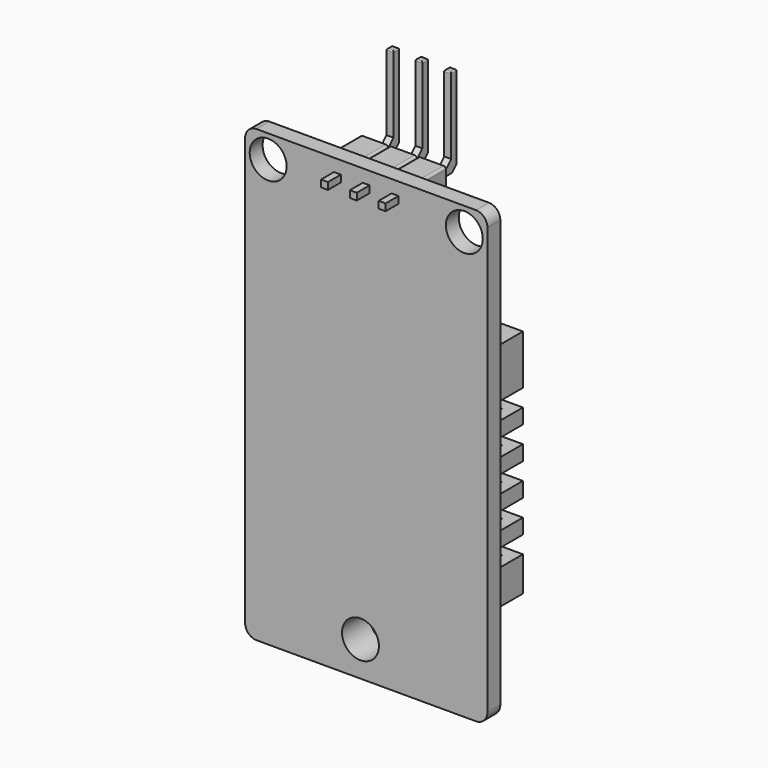
from build123d import *

# Parameters (mm, degrees)
BOX290_W                  = 0.6
BOX290_H                  = 0.6
BOX290_DEPTH              = 7.7
BOX289_W                  = 0.6
BOX289_H                  = 0.6
BOX289_DEPTH              = 7.7
CHAMFER038_SIZE           = 0.5
CHAMFER039_SIZE           = 0.5
FILLET216_R               = 0.1
BOX288_W                  = 2.4
BOX288_H                  = 2.4
BOX288_DEPTH              = 2.6
FILLET215_R               = 0.2
BOX287_W                  = 0.6
BOX287_H                  = 0.6
BOX287_DEPTH              = 7.7
BOX286_W                  = 0.6
BOX286_H                  = 0.6
BOX286_DEPTH              = 7.7
CHAMFER036_SIZE           = 0.5
CHAMFER037_SIZE           = 0.5
FILLET214_R               = 0.1
BOX285_W                  = 2.4
BOX285_H                  = 2.4
BOX285_DEPTH              = 2.6
FILLET213_R               = 0.2
BOX281_W                  = 0.6
BOX281_H                  = 0.6
BOX281_DEPTH              = 7.7
BOX280_W                  = 0.6
BOX280_H                  = 0.6
BOX280_DEPTH              = 7.7
CHAMFER034_SIZE           = 0.5
CHAMFER035_SIZE           = 0.5
FILLET212_R               = 0.1
BOX279_W                  = 2.4
BOX279_H                  = 2.4
BOX279_DEPTH              = 2.6
FILLET211_R               = 0.2
BOX284_W                  = 10
BOX284_H                  = 10
BOX284_DEPTH              = 10
BOX283_W                  = 10
BOX283_H                  = 10
BOX283_DEPTH              = 10
TUBE011_R                 = 3.6
TUBE011_R_2               = 3
TUBE011_DEPTH             = 0.6
TUBE012_R                 = 3.6
TUBE012_R_2               = 3
TUBE012_DEPTH             = 0.6
CUT341_PLACEMENT_ANGLE    = 90
BOX282_W                  = 10
BOX282_H                  = 10
BOX282_DEPTH              = 10
TUBE009_R                 = 3.6
TUBE009_R_2               = 3
TUBE009_DEPTH             = 0.6
TUBE010_R                 = 3.6
TUBE010_R_2               = 3
TUBE010_DEPTH             = 0.6
CUT340_PLACEMENT_ANGLE    = 90
BOX278_W                  = 17
BOX278_H                  = 14
BOX278_DEPTH              = 1.4
CYLINDER262_R             = 1.6
CYLINDER262_DEPTH         = 10
BOX277_W                  = 5
BOX277_H                  = 15
BOX277_DEPTH              = 1.6
BOX277_PLACEMENT_ANGLE    = 60
BOX276_W                  = 5
BOX276_H                  = 15
BOX276_DEPTH              = 1.6
BOX276_PLACEMENT_ANGLE    = 60
BOX275_W                  = 5
BOX275_H                  = 15
BOX275_DEPTH              = 1.6
BOX274_W                  = 18
BOX274_H                  = 13
BOX274_DEPTH              = 6.6
BOX273_W                  = 1.5
BOX273_H                  = 1.5
BOX273_DEPTH              = 4
ARRAY007_Y_COUNT          = 3
ARRAY007_Y_PITCH          = 2.7
BOX272_W                  = 1.5
BOX272_H                  = 1.5
BOX272_DEPTH              = 4
ARRAY006_X_COUNT          = 5
ARRAY006_X_PITCH          = 2.8
ARRAY006_Y_COUNT          = 3
ARRAY006_Y_PITCH          = 2.7
BOX271_W                  = 1.5
BOX271_H                  = 3
BOX271_DEPTH              = 4
ARRAY005_X_COUNT          = 5
ARRAY005_X_PITCH          = 2.8
ARRAY005_Y_COUNT          = 2
ARRAY005_Y_PITCH          = 12
BOX270_W                  = 20
BOX270_H                  = 15
BOX270_DEPTH              = 7.6
CYLINDER261_R             = 1.6
CYLINDER261_DEPTH         = 10
CYLINDER260_R             = 1.6
CYLINDER260_DEPTH         = 10
CYLINDER259_R             = 1.6
CYLINDER259_DEPTH         = 10
BOX269_W                  = 39
BOX269_H                  = 21
BOX269_DEPTH              = 1.4
FILLET209_R               = 1
FILLET210_R               = 1
FUSION197_PITCH_ANGLE     = -90
FUSION197_PLACEMENT_ANGLE = -90


with BuildPart() as cubo275:
    # Box290 → Box290 (new body)
    with BuildSketch(Plane(origin=(0, 0, 7.7), x_dir=(0, 0, -1), z_dir=(1, 0, 0))):
        with Locations((0.3, 0.3)):
            Rectangle(BOX290_W, BOX290_H)
    extrude(amount=BOX290_DEPTH)


with BuildPart() as cuerpometal005:
    # Box289 → Box289 (new body)
    with BuildSketch(Plane.XY):
        with Locations((0.3, 0.3)):
            Rectangle(BOX289_W, BOX289_H)
    extrude(amount=BOX289_DEPTH)

    # Fusion195: union Cubo275
    add(cubo275.part)

    # Chamfer038
    chamfer038_edges = [cuerpometal005.edges().sort_by_distance(p)[0] for p in [
        (0, 0.3, 7.7),
    ]]
    chamfer(chamfer038_edges, length=CHAMFER038_SIZE)

    # Chamfer039
    chamfer039_edges = [cuerpometal005.edges().sort_by_distance(p)[0] for p in [
        (0.6, 0.3, 7.1),
    ]]
    chamfer(chamfer039_edges, length=CHAMFER039_SIZE)

    # Fillet216
    fillet216_edges = [cuerpometal005.edges().sort_by_distance(p)[0] for p in [
        (7.7, 0, 7.4),
        (7.7, 0.3, 7.1),
        (7.7, 0.3, 7.7),
        (7.7, 0.6, 7.4),
    ]]
    fillet(fillet216_edges, radius=FILLET216_R)


with BuildPart() as cuerpometal005_1:
    # Fillet216 placement: moved
    add(cuerpometal005.part.moved(Location((0.9, 0.9, -1.2))))


with BuildPart() as obj1:
    # Box288 → Box288 (new body)
    with BuildSketch(Plane.XY.offset(1.6)):
        with Locations((1.2, 1.2)):
            Rectangle(BOX288_W, BOX288_H)
    extrude(amount=BOX288_DEPTH)

    # Fillet215
    fillet215_edges = [obj1.edges().sort_by_distance(p)[0] for p in [
        (0, 0, 2.9),
        (0, 2.4, 2.9),
        (2.4, 0, 2.9),
        (2.4, 2.4, 2.9),
    ]]
    fillet(fillet215_edges, radius=FILLET215_R)

    # Fusion194: union CuerpoMetal005
    add(cuerpometal005_1.part)


with BuildPart() as obj1_1:
    # Fusion194 placement: moved
    add(obj1.part.moved(Location((36.4, 11.8, -0.2))))


with BuildPart() as cubo272:
    # Box287 → Box287 (new body)
    with BuildSketch(Plane(origin=(0, 0, 7.7), x_dir=(0, 0, -1), z_dir=(1, 0, 0))):
        with Locations((0.3, 0.3)):
            Rectangle(BOX287_W, BOX287_H)
    extrude(amount=BOX287_DEPTH)


with BuildPart() as cuerpometal004:
    # Box286 → Box286 (new body)
    with BuildSketch(Plane.XY):
        with Locations((0.3, 0.3)):
            Rectangle(BOX286_W, BOX286_H)
    extrude(amount=BOX286_DEPTH)

    # Fusion193: union Cubo272
    add(cubo272.part)

    # Chamfer036
    chamfer036_edges = [cuerpometal004.edges().sort_by_distance(p)[0] for p in [
        (0, 0.3, 7.7),
    ]]
    chamfer(chamfer036_edges, length=CHAMFER036_SIZE)

    # Chamfer037
    chamfer037_edges = [cuerpometal004.edges().sort_by_distance(p)[0] for p in [
        (0.6, 0.3, 7.1),
    ]]
    chamfer(chamfer037_edges, length=CHAMFER037_SIZE)

    # Fillet214
    fillet214_edges = [cuerpometal004.edges().sort_by_distance(p)[0] for p in [
        (7.7, 0, 7.4),
        (7.7, 0.3, 7.1),
        (7.7, 0.3, 7.7),
        (7.7, 0.6, 7.4),
    ]]
    fillet(fillet214_edges, radius=FILLET214_R)


with BuildPart() as cuerpometal004_1:
    # Fillet214 placement: moved
    add(cuerpometal004.part.moved(Location((0.9, 0.9, -1.2))))


with BuildPart() as obj2:
    # Box285 → Box285 (new body)
    with BuildSketch(Plane.XY.offset(1.6)):
        with Locations((1.2, 1.2)):
            Rectangle(BOX285_W, BOX285_H)
    extrude(amount=BOX285_DEPTH)

    # Fillet213
    fillet213_edges = [obj2.edges().sort_by_distance(p)[0] for p in [
        (0, 0, 2.9),
        (0, 2.4, 2.9),
        (2.4, 0, 2.9),
        (2.4, 2.4, 2.9),
    ]]
    fillet(fillet213_edges, radius=FILLET213_R)

    # Fusion192: union CuerpoMetal004
    add(cuerpometal004_1.part)


with BuildPart() as obj2_1:
    # Fusion192 placement: moved
    add(obj2.part.moved(Location((36.4, 9.3, -0.2))))


with BuildPart() as cubo266:
    # Box281 → Box281 (new body)
    with BuildSketch(Plane(origin=(0, 0, 7.7), x_dir=(0, 0, -1), z_dir=(1, 0, 0))):
        with Locations((0.3, 0.3)):
            Rectangle(BOX281_W, BOX281_H)
    extrude(amount=BOX281_DEPTH)


with BuildPart() as cuerpometal003:
    # Box280 → Box280 (new body)
    with BuildSketch(Plane.XY):
        with Locations((0.3, 0.3)):
            Rectangle(BOX280_W, BOX280_H)
    extrude(amount=BOX280_DEPTH)

    # Fusion191: union Cubo266
    add(cubo266.part)

    # Chamfer034
    chamfer034_edges = [cuerpometal003.edges().sort_by_distance(p)[0] for p in [
        (0, 0.3, 7.7),
    ]]
    chamfer(chamfer034_edges, length=CHAMFER034_SIZE)

    # Chamfer035
    chamfer035_edges = [cuerpometal003.edges().sort_by_distance(p)[0] for p in [
        (0.6, 0.3, 7.1),
    ]]
    chamfer(chamfer035_edges, length=CHAMFER035_SIZE)

    # Fillet212
    fillet212_edges = [cuerpometal003.edges().sort_by_distance(p)[0] for p in [
        (7.7, 0, 7.4),
        (7.7, 0.3, 7.1),
        (7.7, 0.3, 7.7),
        (7.7, 0.6, 7.4),
    ]]
    fillet(fillet212_edges, radius=FILLET212_R)


with BuildPart() as cuerpometal003_1:
    # Fillet212 placement: moved
    add(cuerpometal003.part.moved(Location((0.9, 0.9, -1.2))))


with BuildPart() as obj3:
    # Box279 → Box279 (new body)
    with BuildSketch(Plane.XY.offset(1.6)):
        with Locations((1.2, 1.2)):
            Rectangle(BOX279_W, BOX279_H)
    extrude(amount=BOX279_DEPTH)

    # Fillet211
    fillet211_edges = [obj3.edges().sort_by_distance(p)[0] for p in [
        (0, 0, 2.9),
        (0, 2.4, 2.9),
        (2.4, 0, 2.9),
        (2.4, 2.4, 2.9),
    ]]
    fillet(fillet211_edges, radius=FILLET211_R)

    # Fusion190: union CuerpoMetal003
    add(cuerpometal003_1.part)


with BuildPart() as obj3_1:
    # Fusion190 placement: moved
    add(obj3.part.moved(Location((36.4, 6.8, -0.2))))


with BuildPart() as cubo269:
    # Box284 → Box284 (new body)
    with BuildSketch(Plane(origin=(20, 5, -9), x_dir=(1, 0, 0), z_dir=(0, 0, 1))):
        with Locations((5, 5)):
            Rectangle(BOX284_W, BOX284_H)
    extrude(amount=BOX284_DEPTH)


with BuildPart() as cubo268:
    # Box283 → Box283 (new body)
    with BuildSketch(Plane(origin=(-14, -11, -10), x_dir=(1, 0, 0), z_dir=(0, 0, 1))):
        with Locations((5, 5)):
            Rectangle(BOX283_W, BOX283_H)
    extrude(amount=BOX283_DEPTH)


with BuildPart() as tube011:
    # Tube011 → Tube011 (new body)
    with BuildSketch(Plane(origin=(-12, -5, 2), x_dir=(0, 0, -1), z_dir=(1, 0, 0))):
        Circle(TUBE011_R)
        Circle(TUBE011_R_2, mode=Mode.SUBTRACT)
    extrude(amount=TUBE011_DEPTH)


with BuildPart() as cut341:
    # Tube012 → Tube012 (new body)
    with BuildSketch(Plane(origin=(-10.5, -5, 2), x_dir=(0, 0, -1), z_dir=(1, 0, 0))):
        Circle(TUBE012_R)
        Circle(TUBE012_R_2, mode=Mode.SUBTRACT)
    extrude(amount=TUBE012_DEPTH)

    # Fusion188: union Tube011
    add(tube011.part)

    # Cut341: cut Cubo268
    add(cubo268.part, mode=Mode.SUBTRACT)


with BuildPart() as cut341_1:
    # Cut341 placement: moved
    add(cut341.part.moved(Location((20, 23, -1))).rotate(Axis((20, 23, -1), (0, 0, 1)), CUT341_PLACEMENT_ANGLE))


with BuildPart() as cubo267:
    # Box282 → Box282 (new body)
    with BuildSketch(Plane(origin=(-14, -11, -10), x_dir=(1, 0, 0), z_dir=(0, 0, 1))):
        with Locations((5, 5)):
            Rectangle(BOX282_W, BOX282_H)
    extrude(amount=BOX282_DEPTH)


with BuildPart() as tube009:
    # Tube009 → Tube009 (new body)
    with BuildSketch(Plane(origin=(-12, -5, 2), x_dir=(0, 0, -1), z_dir=(1, 0, 0))):
        Circle(TUBE009_R)
        Circle(TUBE009_R_2, mode=Mode.SUBTRACT)
    extrude(amount=TUBE009_DEPTH)


with BuildPart() as obj4:
    # Tube010 → Tube010 (new body)
    with BuildSketch(Plane(origin=(-10.5, -5, 2), x_dir=(0, 0, -1), z_dir=(1, 0, 0))):
        Circle(TUBE010_R)
        Circle(TUBE010_R_2, mode=Mode.SUBTRACT)
    extrude(amount=TUBE010_DEPTH)

    # Fusion187: union Tube009
    add(tube009.part)

    # Cut340: cut Cubo267
    add(cubo267.part, mode=Mode.SUBTRACT)


with BuildPart() as obj4_1:
    # Cut340 placement: moved
    add(obj4.part.moved(Location((20, 19, -1))).rotate(Axis((20, 19, -1), (0, 0, 1)), CUT340_PLACEMENT_ANGLE))

    # Fusion189: union Cut341
    add(cut341_1.part)

    # Cut342: cut Cubo269
    add(cubo269.part, mode=Mode.SUBTRACT)


with BuildPart() as cubo263:
    # Box278 → Box278 (new body)
    with BuildSketch(Plane(origin=(6, 3.5, 1.4), x_dir=(1, 0, 0), z_dir=(0, 0, 1))):
        with Locations((8.5, 7)):
            Rectangle(BOX278_W, BOX278_H)
    extrude(amount=BOX278_DEPTH)


with BuildPart() as cilindro262:
    # Cylinder262 → Cylinder262 (new body)
    with BuildSketch(Plane(origin=(3, 10, 0), x_dir=(1, 0, 0), z_dir=(0, 0, 1))):
        Circle(CYLINDER262_R)
    extrude(amount=CYLINDER262_DEPTH)


with BuildPart() as cubo262:
    # Box277 → Box277 (new body)
    with BuildSketch(Plane.XY):
        with Locations((2.5, 7.5)):
            Rectangle(BOX277_W, BOX277_H)
    extrude(amount=BOX277_DEPTH)


with BuildPart() as cubo262_1:
    # Box277 placement: moved
    add(cubo262.part.moved(Location((7, -6.36, 1.4))).rotate(Axis((7, -6.36, 1.4), (0, 0, 1)), BOX277_PLACEMENT_ANGLE))


with BuildPart() as cubo261:
    # Box276 → Box276 (new body)
    with BuildSketch(Plane.XY):
        with Locations((2.5, 7.5)):
            Rectangle(BOX276_W, BOX276_H)
    extrude(amount=BOX276_DEPTH)


with BuildPart() as cubo261_1:
    # Box276 placement: moved
    add(cubo261.part.moved(Location((-2, 16.12, 1.4))).rotate(Axis((-2, 16.12, 1.4), (0, 0, -1)), BOX276_PLACEMENT_ANGLE))


with BuildPart() as cut338:
    # Box275 → Box275 (new body)
    with BuildSketch(Plane(origin=(1, 0, 1.4), x_dir=(1, 0, 0), z_dir=(0, 0, 1))):
        with Locations((2.5, 7.5)):
            Rectangle(BOX275_W, BOX275_H)
    extrude(amount=BOX275_DEPTH)

    # Cut337: cut Cubo261
    add(cubo261_1.part, mode=Mode.SUBTRACT)

    # Cut338: cut Cubo262
    add(cubo262_1.part, mode=Mode.SUBTRACT)


with BuildPart() as cubo259:
    # Box274 → Box274 (new body)
    with BuildSketch(Plane(origin=(1, 1, 0), x_dir=(1, 0, 0), z_dir=(0, 0, 1))):
        with Locations((9, 6.5)):
            Rectangle(BOX274_W, BOX274_H)
    extrude(amount=BOX274_DEPTH)


with BuildPart() as array007:
    # Box273 → Box273 (new body)
    with BuildSketch(Plane(origin=(3, 0, 4), x_dir=(1, 0, 0), z_dir=(0, 0, 1))):
        with Locations((0.75, 0.75)):
            Rectangle(BOX273_W, BOX273_H)
    extrude(amount=BOX273_DEPTH)

    # Array007 Y: Array007 ×3


with BuildPart() as array007_1:
    add(array007.part)
    with Locations(*[(0, i * ARRAY007_Y_PITCH, 0) for i in range(1, ARRAY007_Y_COUNT)]):
        add(array007.part)


with BuildPart() as array007_2:
    # Array007 placement: moved
    add(array007_1.part.moved(Location((-3, 4, 0))))


with BuildPart() as array006:
    # Box272 → Box272 (new body)
    with BuildSketch(Plane(origin=(3, 0, 4), x_dir=(1, 0, 0), z_dir=(0, 0, 1))):
        with Locations((0.75, 0.75)):
            Rectangle(BOX272_W, BOX272_H)
    extrude(amount=BOX272_DEPTH)

    # Array006 X: Array006 ×5


with BuildPart() as array006_1:
    add(array006.part)
    with Locations(*[(i * ARRAY006_X_PITCH, 0, 0) for i in range(1, ARRAY006_X_COUNT)]):
        add(array006.part)

    # Array006 Y: Array006 ×3


with BuildPart() as array006_2:
    add(array006_1.part)
    with Locations(*[(0, i * ARRAY006_Y_PITCH, 0) for i in range(1, ARRAY006_Y_COUNT)]):
        add(array006_1.part)


with BuildPart() as array006_3:
    # Array006 placement: moved
    add(array006_2.part.moved(Location((0, 4, 0))))


with BuildPart() as array005:
    # Box271 → Box271 (new body)
    with BuildSketch(Plane(origin=(3, 0, 4), x_dir=(1, 0, 0), z_dir=(0, 0, 1))):
        with Locations((0.75, 1.5)):
            Rectangle(BOX271_W, BOX271_H)
    extrude(amount=BOX271_DEPTH)

    # Array005 X: Array005 ×5


with BuildPart() as array005_1:
    add(array005.part)
    with Locations(*[(i * ARRAY005_X_PITCH, 0, 0) for i in range(1, ARRAY005_X_COUNT)]):
        add(array005.part)

    # Array005 Y: Array005 ×2


with BuildPart() as array005_2:
    add(array005_1.part)
    with Locations(*[(0, i * ARRAY005_Y_PITCH, 0) for i in range(1, ARRAY005_Y_COUNT)]):
        add(array005_1.part)


with BuildPart() as obj5:
    # Box270 → Box270 (new body)
    with BuildSketch(Plane.XY):
        with Locations((10, 7.5)):
            Rectangle(BOX270_W, BOX270_H)
    extrude(amount=BOX270_DEPTH)

    # Cut334: cut Array005
    add(array005_2.part, mode=Mode.SUBTRACT)

    # Cut335: cut Array006
    add(array006_3.part, mode=Mode.SUBTRACT)

    # Cut336: cut Array007
    add(array007_2.part, mode=Mode.SUBTRACT)

    # Cut006: cut Cubo259
    add(cubo259.part, mode=Mode.SUBTRACT)


with BuildPart() as obj5_1:
    # Cut006 placement: moved
    add(obj5.part.moved(Location((6, 0, 0))))

    # Fusion185: union Cut338
    add(cut338.part)


with BuildPart() as obj5_2:
    # Fusion185 placement: moved
    add(obj5_1.part.moved(Location((0, 3, 0))))

    # Cut339: cut Cilindro262
    add(cilindro262.part, mode=Mode.SUBTRACT)

    # Fusion186: union Cubo263
    add(cubo263.part)


with BuildPart() as cilindro261:
    # Cylinder261 → Cylinder261 (new body)
    with BuildSketch(Plane(origin=(3, 10, 0), x_dir=(1, 0, 0), z_dir=(0, 0, 1))):
        Circle(CYLINDER261_R)
    extrude(amount=CYLINDER261_DEPTH)


with BuildPart() as cilindro260:
    # Cylinder260 → Cylinder260 (new body)
    with BuildSketch(Plane(origin=(37, 19, 0), x_dir=(1, 0, 0), z_dir=(0, 0, 1))):
        Circle(CYLINDER260_R)
    extrude(amount=CYLINDER260_DEPTH)


with BuildPart() as cilindro259:
    # Cylinder259 → Cylinder259 (new body)
    with BuildSketch(Plane(origin=(37, 2, 0), x_dir=(1, 0, 0), z_dir=(0, 0, 1))):
        Circle(CYLINDER259_R)
    extrude(amount=CYLINDER259_DEPTH)


with BuildPart() as obj6:
    # Box269 → Box269 (new body)
    with BuildSketch(Plane.XY):
        with Locations((19.5, 10.5)):
            Rectangle(BOX269_W, BOX269_H)
    extrude(amount=BOX269_DEPTH)

    # Fillet209
    fillet209_edges = [obj6.edges().sort_by_distance(p)[0] for p in [
        (0, 21, 0.7),
        (39, 0, 0.7),
        (39, 21, 0.7),
    ]]
    fillet(fillet209_edges, radius=FILLET209_R)

    # Fillet210
    fillet210_edges = [obj6.edges().sort_by_distance(p)[0] for p in [
        (0, 0, 0.7),
    ]]
    fillet(fillet210_edges, radius=FILLET210_R)

    # Cut331: cut Cilindro259
    add(cilindro259.part, mode=Mode.SUBTRACT)

    # Cut332: cut Cilindro260
    add(cilindro260.part, mode=Mode.SUBTRACT)

    # Cut333: cut Cilindro261
    add(cilindro261.part, mode=Mode.SUBTRACT)

    # Fusion196: union obj5
    add(obj5_2.part)

    # Fusion197: union obj1, obj2, obj3, obj4
    add(obj1_1.part)
    add(obj2_1.part)
    add(obj3_1.part)
    add(obj4_1.part)


with BuildPart() as obj6_1:
    # Fusion197 pitch: moved
    add(obj6.part.rotate(Axis((0, 0, 0), (0, 1, 0)), FUSION197_PITCH_ANGLE))


with BuildPart() as obj6_2:
    # Fusion197 placement: moved
    add(obj6_1.part.moved(Location((-10.5, -3, -19))).rotate(Axis((-10.5, -3, -19), (0, 0, 1)), FUSION197_PLACEMENT_ANGLE))


solid = obj6_2.part
